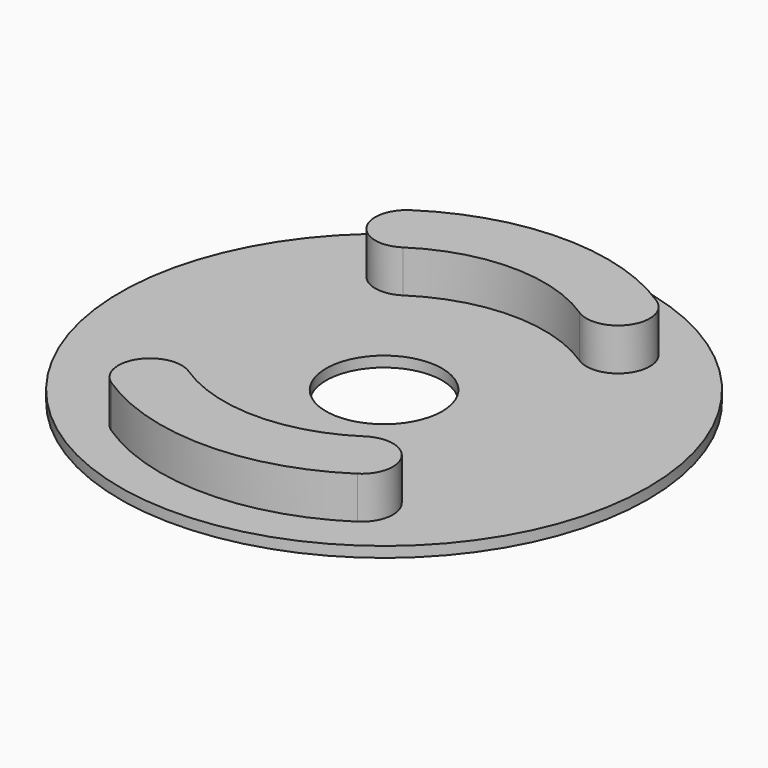
from build123d import *

# Parameters (mm, degrees)
SKETCH002_R   = 25
SKETCH002_R_2 = 5.5
PAD_DEPTH     = 1
PAD001_DEPTH  = 4


with BuildPart() as part:
    # Sketch002 → Pad (new body)
    with BuildSketch(Plane.XY):
        Circle(SKETCH002_R)
        Circle(SKETCH002_R_2, mode=Mode.SUBTRACT)
    extrude(amount=PAD_DEPTH)

    # Sketch001 → Pad001 (join)
    with BuildSketch(Plane.XY.offset(1)):
        with BuildLine():
            ThreePointArc((8.351648, 12.699999), (0, 15.2), (-8.351648, 12.699999))
            ThreePointArc((-11.648352, 17.713156), (-12.506579, 13.558226), (-8.351648, 12.699999))
            ThreePointArc((11.648352, 17.713156), (0, 21.2), (-11.648352, 17.713156))
            ThreePointArc((8.351648, 12.699999), (12.506579, 13.558226), (11.648352, 17.713156))
        make_face()
        with BuildLine():
            ThreePointArc((-8.351648, -12.699999), (0, -15.2), (8.351648, -12.699999))
            ThreePointArc((11.648352, -17.713156), (12.506579, -13.558226), (8.351648, -12.699999))
            ThreePointArc((-11.648352, -17.713156), (0, -21.2), (11.648352, -17.713156))
            ThreePointArc((-8.351648, -12.699999), (-12.506579, -13.558226), (-11.648352, -17.713156))
        make_face()
    extrude(amount=PAD001_DEPTH)


solid = part.part
